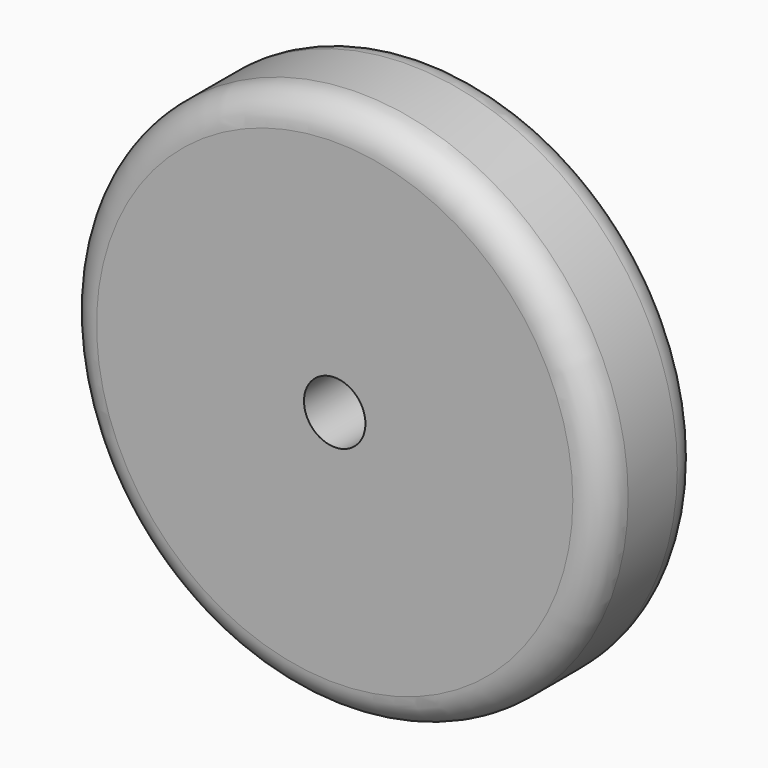
from build123d import *

# Parameters (mm, degrees)
F0_R     = 44.45
F1_DEPTH = 20.32
F2_R     = 5.08
F3_DEPTH = 18.542
F4_R     = 5.08


with BuildPart() as f1:
    # F0 (on Front) → F1 (new body)
    with BuildSketch(Plane.XZ):
        Circle(F0_R)
    extrude(amount=F1_DEPTH)

    # F2 (on face) → F3 (cut)
    with BuildSketch(Plane.XZ.offset(20.32)):
        Circle(F2_R)
    extrude(amount=-F3_DEPTH, mode=Mode.SUBTRACT)

    # F4
    f4_edges = [f1.edges().sort_by_distance(p)[0] for p in [
        (-44.45, -20.32, 0),
        (-44.45, 0, 0),
    ]]
    fillet(f4_edges, radius=F4_R)


solid = f1.part
